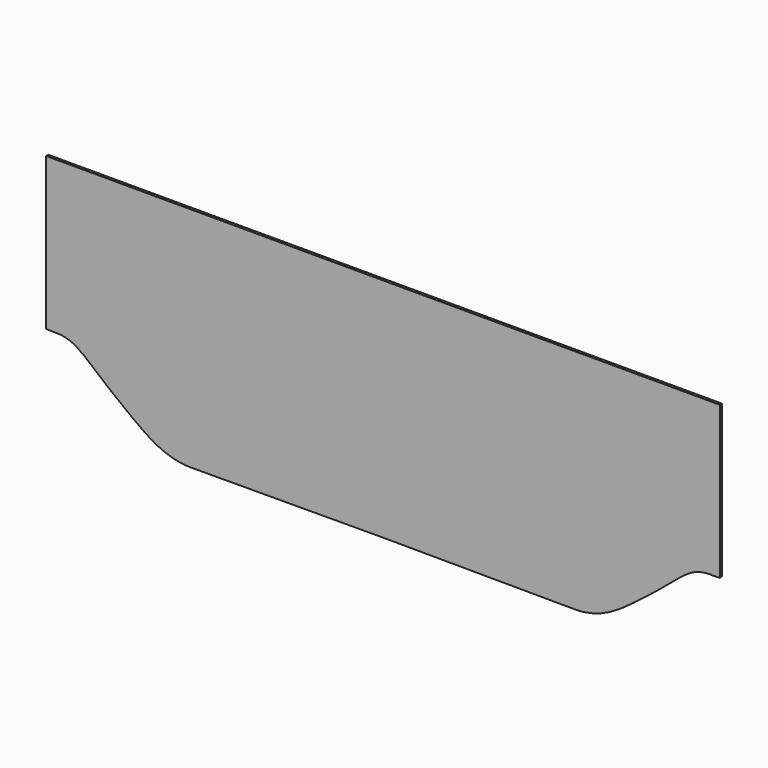
from build123d import *

# Parameters (mm, degrees)
F1_DEPTH = 1


with BuildPart() as f1:
    # F0 (on Front) → F1 (new body)
    with BuildSketch(Plane.XZ):
        with BuildLine():
            Line((0, 84.98), (0, 28))
            add(Edge.make_bspline(
                [(0, 28), (0.618794, 28.000273), (2.022182, 28.000889), (3.997252, 27.996472), (6.020393, 27.83137), (8.049271, 27.39716), (10.073322, 26.588185), (12.058052, 25.412291), (14.042848, 23.996858), (16.027734, 22.406702), (18.001384, 20.708277), (19.989334, 19.000738), (21.990425, 17.331716), (23.990056, 15.700986), (25.99234, 14.110248), (27.99837, 12.551237), (29.994775, 10.999885), (31.99357, 9.471529), (33.983048, 7.970339), (35.976312, 6.539007), (37.973681, 5.208922), (39.964333, 3.990272), (41.971527, 2.941765), (43.969055, 2.030999), (45.979124, 1.30507), (47.97783, 0.713784), (49.993541, 0.308832), (51.97042, 0.044173), (53.38056, 0.013435), (54, 0)],
                knots=[0, 0, 0, 0, 2, 4.000225, 6.008309, 8.056137, 10.206509, 12.513563, 14.960623, 17.515637, 20.140518, 22.771887, 25.377439, 27.957535, 30.51255, 33.049004, 35.579321, 38.097435, 40.597435, 43.056073, 45.457926, 47.795468, 50.054339, 52.24751, 54.376571, 56.458974, 58.500566, 60.51613, 62.51773, 62.51773, 62.51773, 62.51773], degree=3))
            Line((54, 0), (126, 0.28596))
            Line((126, 0.28596), (126, 84.98))
            Line((126, 84.98), (0, 84.98))
        make_face()
    extrude(amount=F1_DEPTH)

    # F2: F1 across face


with BuildPart() as f1_1:
    add(f1.part)
    add(f1.part.mirror(Plane(origin=(126, -0.5, 42.63298), x_dir=(0, 1, 0), z_dir=(1, 0, 0))))


solid = f1_1.part
